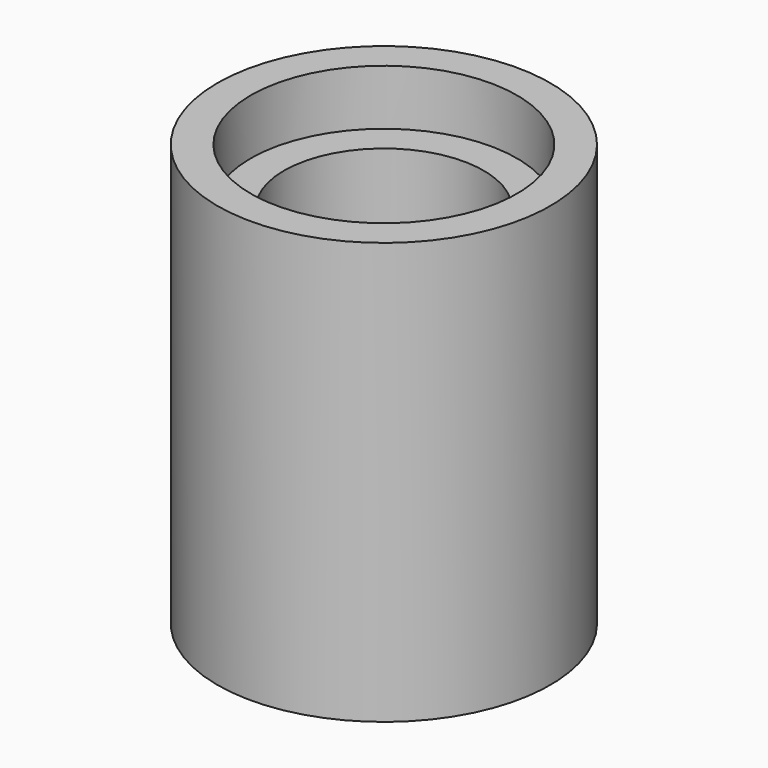
from build123d import *


with BuildPart() as f1:
    # F0 (on Front) → F1 (revolve)
    with BuildSketch(Plane.XZ):
        with BuildLine():
            Line((-15, -4), (0, -4))
            Line((0, -4), (0, 0))
            ThreePointArc((0, 0), (-4.924429, 1.045035), (-9, 4))
            Line((-9, 4), (-9, 29))
            Line((-9, 29), (-12, 29))
            Line((-12, 29), (-12, 34))
            Line((-12, 34), (-15, 34))
            Line((-15, 34), (-15, 29))
            Line((-15, 29), (-15, 4))
            Line((-15, 4), (-15, -4))
        make_face()
    revolve(axis=Axis((0, 0, -2), (0, 0, 1)))


solid = f1.part
